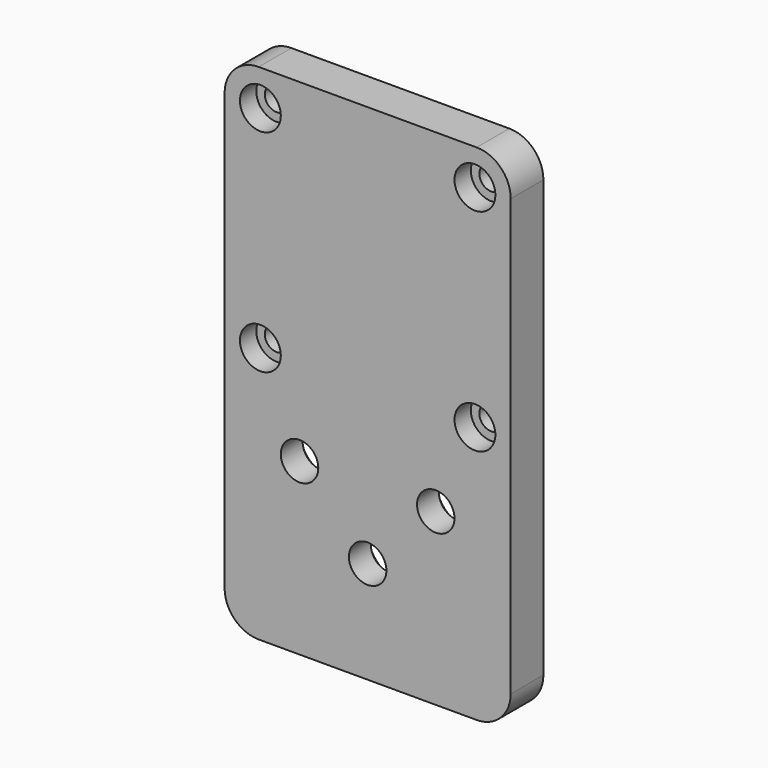
from build123d import *

# Parameters (mm, degrees)
F0_W     = 42
F0_H     = 74
F0_R     = 1.75
F1_DEPTH = 6
F3_R     = 5
F2_R     = 3
F4_DEPTH = 3
F5_R     = 2.75
F6_DEPTH = 6
F7_R     = 4.75
F8_DEPTH = 2


with BuildPart() as f1:
    # F0 (on Front) → F1 (new body)
    with BuildSketch(Plane.XZ):
        Rectangle(F0_W, F0_H)
        with Locations((-15.75, 0.75)):
            Circle(F0_R, mode=Mode.SUBTRACT)
        with Locations((-15.75, 31.75)):
            Circle(F0_R, mode=Mode.SUBTRACT)
        with Locations((15.75, 0.75)):
            Circle(F0_R, mode=Mode.SUBTRACT)
        with Locations((15.75, 31.75)):
            Circle(F0_R, mode=Mode.SUBTRACT)
    extrude(amount=F1_DEPTH)

    # F3
    f3_edges = [f1.edges().sort_by_distance(p)[0] for p in [
        (-21, -3, -37),
        (-21, -3, 37),
        (21, -3, 37),
        (21, -3, -37),
    ]]
    fillet(f3_edges, radius=F3_R)

    # F2 (on face) → F4 (cut)
    with BuildSketch(Plane.XZ.offset(6)):
        with Locations((-15.75, 0.75)):
            Circle(F2_R)
        with Locations((15.75, 0.75)):
            Circle(F2_R)
        with Locations((-15.75, 31.75)):
            Circle(F2_R)
        with Locations((15.75, 31.75)):
            Circle(F2_R)
    extrude(amount=-F4_DEPTH, mode=Mode.SUBTRACT)

    # F5 (on face) → F6 (cut, through all)
    with BuildSketch(Plane.XZ.offset(6)):
        with Locations((0, -22)):
            Circle(F5_R)
        with Locations((-10, -12)):
            Circle(F5_R)
        with Locations((10, -12)):
            Circle(F5_R)
    extrude(amount=-F6_DEPTH, mode=Mode.SUBTRACT)

    # F7 (on face) → F8 (cut)
    with BuildSketch(Plane(origin=(0, 0, 0), x_dir=(-1, 0, 0), z_dir=(0, 1, 0))):
        with Locations((-10, -12)):
            Circle(F7_R)
        with Locations((10, -12)):
            Circle(F7_R)
        with Locations((0, -22)):
            Circle(F7_R)
    extrude(amount=-F8_DEPTH, mode=Mode.SUBTRACT)


solid = f1.part
